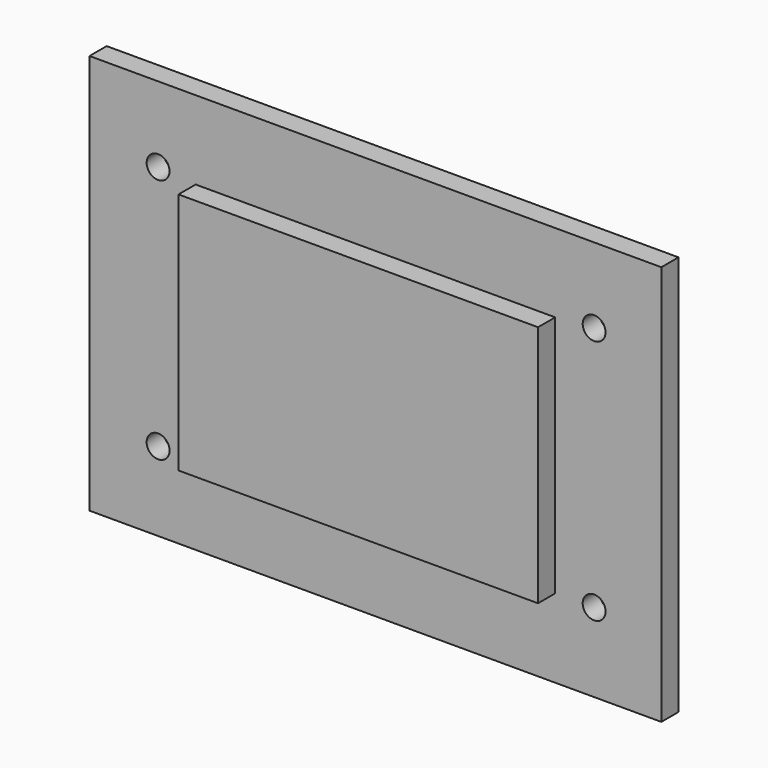
from build123d import *

# Parameters (mm, degrees)
F0_W     = 200
F0_H     = 140
F0_W_2   = 125.75
F0_H_2   = 85
F1_DEPTH = 7.5
F3_D     = 8
F3_DEPTH = 12
F4_DEPTH = 15


with BuildPart() as f1:
    # F0 (on Front) → F1 (new body)
    with BuildSketch(Plane.XZ):
        with Locations((-116.173333, 64.000176)):
            Rectangle(F0_W, F0_H)
        with Locations((-116.173333, 64.000176)):
            Rectangle(F0_W_2, F0_H_2, mode=Mode.SUBTRACT)
    extrude(amount=F1_DEPTH)

    # F3
    with Locations(Plane.XZ.offset(7.5)):
        with Locations((-39.681189, 21.607968), (-192.181189, 21.607968), (-192.181189, 107.607968), (-39.681189, 107.607968)):
            Hole(F3_D / 2, depth=F3_DEPTH)

    # F0 (on Front) → F4 (join)
    with BuildSketch(Plane.XZ):
        with Locations((-116.173333, 64.000176)):
            Rectangle(F0_W_2, F0_H_2)
    extrude(amount=F4_DEPTH)


solid = f1.part
